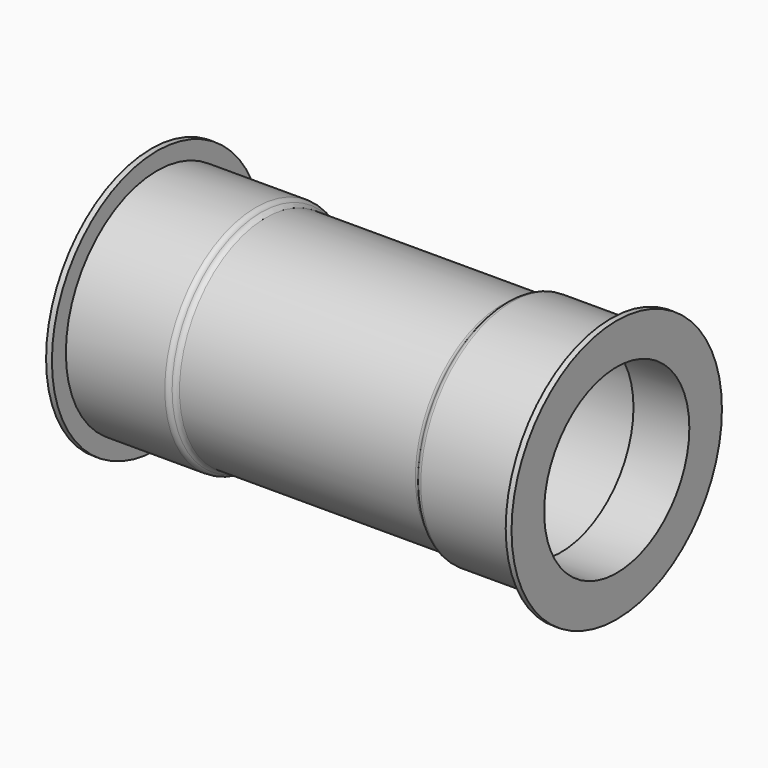
from build123d import *


with BuildPart() as f1:
    # F0 (on Top) → F1 (revolve)
    with BuildSketch(Plane.XY):
        with BuildLine():
            ThreePointArc((-105.669873, 95.5), (-107.5, 97.330127), (-110, 98))
            Line((-110, 98), (-195, 98))
            Line((-195, 98), (-195, 113))
            Line((-195, 113), (-200, 113))
            Line((-200, 113), (-200, 98))
            Line((-200, 98), (-200, 78))
            Line((-200, 78), (-152, 78))
            Line((-152, 78), (-152, 89))
            Line((-152, 89), (0, 89))
            Line((0, 89), (0, 93))
            Line((0, 93), (-101.339746, 93))
            ThreePointArc((-101.339746, 93), (-103.839746, 93.669873), (-105.669873, 95.5))
        make_face()
        with BuildLine():
            Line((101.339746, 93), (0, 93))
            Line((0, 93), (0, 89))
            Line((0, 89), (152, 89))
            Line((152, 89), (152, 78))
            Line((152, 78), (200, 78))
            Line((200, 78), (200, 98))
            Line((200, 98), (200, 113))
            Line((200, 113), (195, 113))
            Line((195, 113), (195, 98))
            Line((195, 98), (110, 98))
            ThreePointArc((110, 98), (107.5, 97.330127), (105.669873, 95.5))
            ThreePointArc((105.669873, 95.5), (103.839746, 93.669873), (101.339746, 93))
        make_face()
    revolve(axis=Axis((-6.106503, 0, 0), (1, 0, 0)))


solid = f1.part
